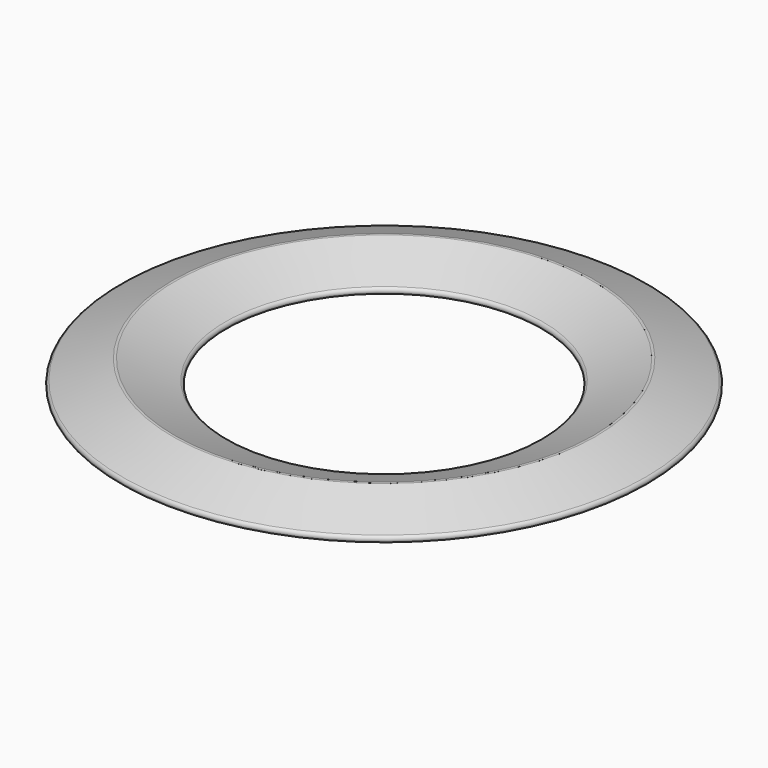
from build123d import *


with BuildPart() as f1:
    # F0 (on Front) → F1 (revolve)
    with BuildSketch(Plane.XZ):
        with BuildLine():
            Line((62.272887, 0.077405), (77.10745, 4.285274))
            ThreePointArc((77.10745, 4.285274), (77.833564, 5.202643), (77.192238, 6.181166))
            Line((77.192238, 6.181166), (62.357676, 11.863005))
            ThreePointArc((62.357676, 11.863005), (62, 11.929159), (61.642324, 11.863005))
            Line((61.642324, 11.863005), (46.807762, 6.181166))
            ThreePointArc((46.807762, 6.181166), (46.166436, 5.202643), (46.89255, 4.285274))
            Line((46.89255, 4.285274), (61.727113, 0.077405))
            ThreePointArc((61.727113, 0.077405), (62, 0.039451), (62.272887, 0.077405))
        make_face()
    revolve(axis=Axis((0, 0, 13.071452), (0, 0, 1)))


solid = f1.part
